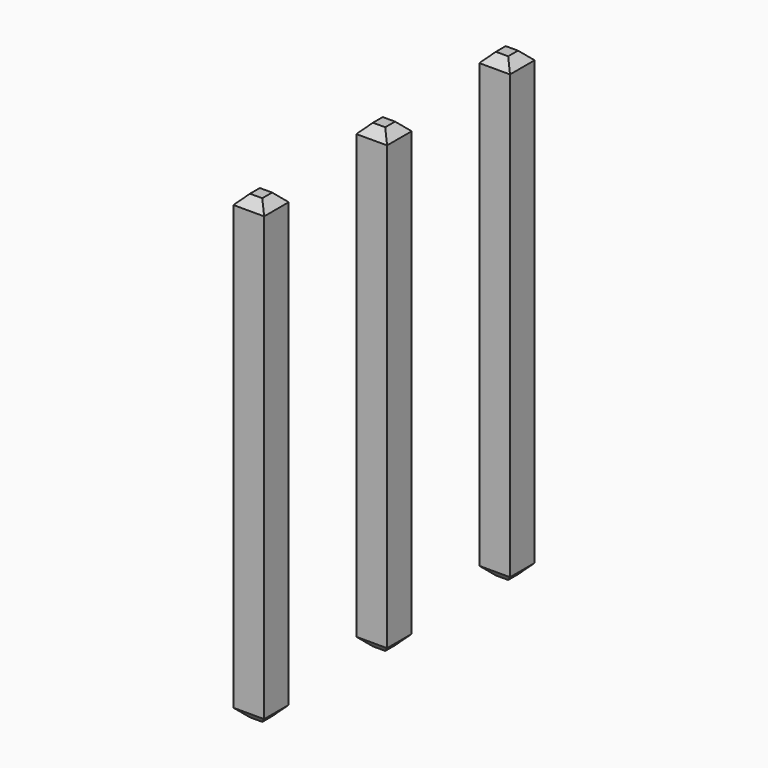
from build123d import *

# Parameters (mm, degrees)
SKETCH002_W   = 1
SKETCH002_H   = 1
PAD001_DEPTH  = 15
CHAMFER_SIZE  = 0.3
ARRAY_Y_COUNT = 3
ARRAY_Y_PITCH = 5


with BuildPart() as part:
    # Sketch002 → Pad001 (new body)
    with BuildSketch(Plane.XY.offset(-4)):
        Rectangle(SKETCH002_W, SKETCH002_H)
    extrude(amount=PAD001_DEPTH)

    # Chamfer
    chamfer_edges = [part.edges().sort_by_distance(p)[0] for p in [
        (0.5, 0, 11),
        (-0.5, 0, 11),
        (0, 0.5, 11),
        (0, -0.5, 11),
        (0, -0.5, -4),
        (-0.5, 0, -4),
        (0, 0.5, -4),
        (0.5, 0, -4),
    ]]
    chamfer(chamfer_edges, length=CHAMFER_SIZE)

    # Array Y: part ×3


with BuildPart() as part_1:
    add(part.part)
    with Locations(*[(0, i * ARRAY_Y_PITCH, 0) for i in range(1, ARRAY_Y_COUNT)]):
        add(part.part)


solid = part_1.part
